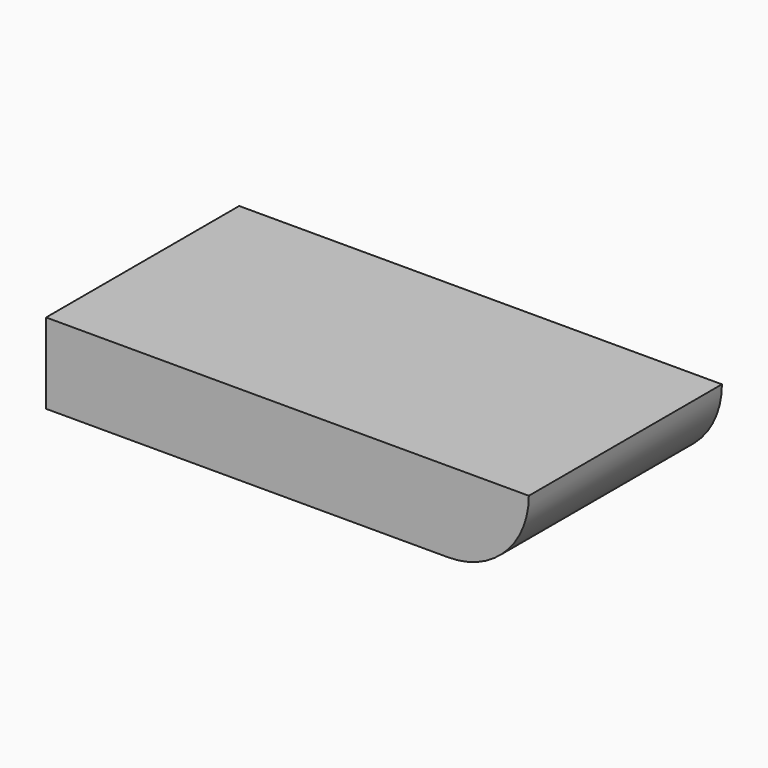
from build123d import *

# Parameters (mm, degrees)
F0_W     = 127
F0_H     = 25.4
F1_DEPTH = 76.2


with BuildPart() as f1:
    # F0 (on Front) → F1 (new body)
    with BuildSketch(Plane.XZ):
        with Locations((-3.693966, -7.170419)):
            Rectangle(F0_W, F0_H)
        with BuildLine():
            Line((85.206034, 5.529581), (59.806034, 5.529581))
            Line((59.806034, 5.529581), (59.806034, -19.870419))
            ThreePointArc((59.806034, -19.870419), (77.766546, -12.430932), (85.206034, 5.529581))
        make_face()
    extrude(amount=F1_DEPTH)


solid = f1.part
